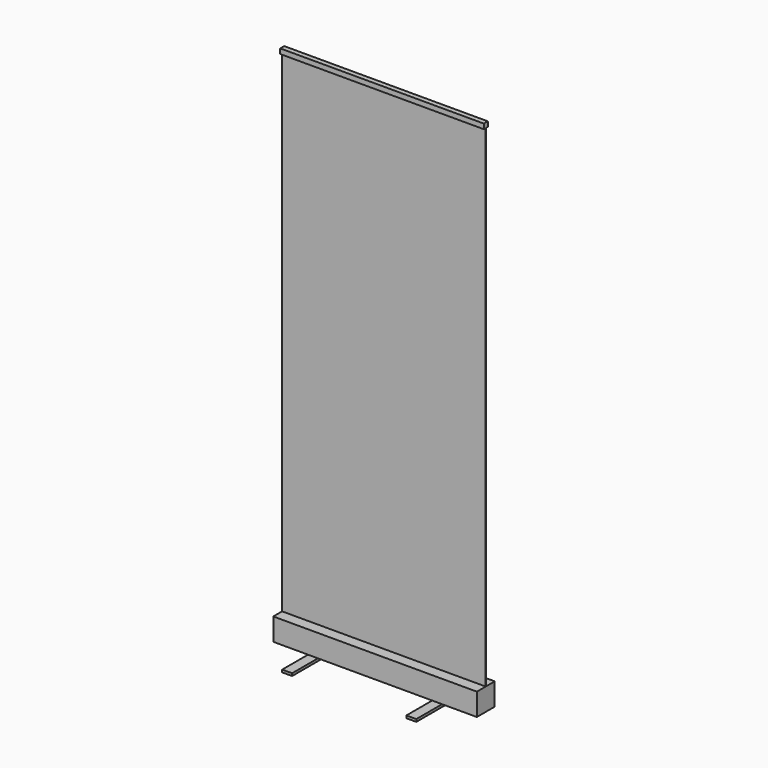
from build123d import *

# Parameters (mm, degrees)
F0_W          = 1
F0_H          = 1980
F1_DEPTH      = 410
F1_DEPTH_BACK = 410
F2_W          = 40
F2_H          = 350
F3_DEPTH      = 10


with BuildPart() as f1:
    # F0 (on Right) → F1 (new body, two sides)
    with BuildSketch(Plane.YZ) as f1_sk:
        Polygon((-45, 0), (45, 0), (45, 90), (0.5, 90), (-0.5, 90), (-45, 90), align=None)
        with Locations((0, 1080)):
            Rectangle(F0_W, F0_H)
        Polygon((-0.5, 2070), (0.5, 2070), (10, 2070), (10, 2090), (-10, 2090), (-10, 2070), align=None)
    extrude(amount=F1_DEPTH)
    extrude(f1_sk.sketch, amount=-F1_DEPTH_BACK)

    # F2 (on face) → F3 (join)
    with BuildSketch(Plane(origin=(0, 0, 0), x_dir=(1, 0, 0), z_dir=(0, 0, -1))):
        with Locations((-250, 0)):
            Rectangle(F2_W, F2_H)
        with Locations((250, 0)):
            Rectangle(F2_W, F2_H)
    extrude(amount=F3_DEPTH)


solid = f1.part
